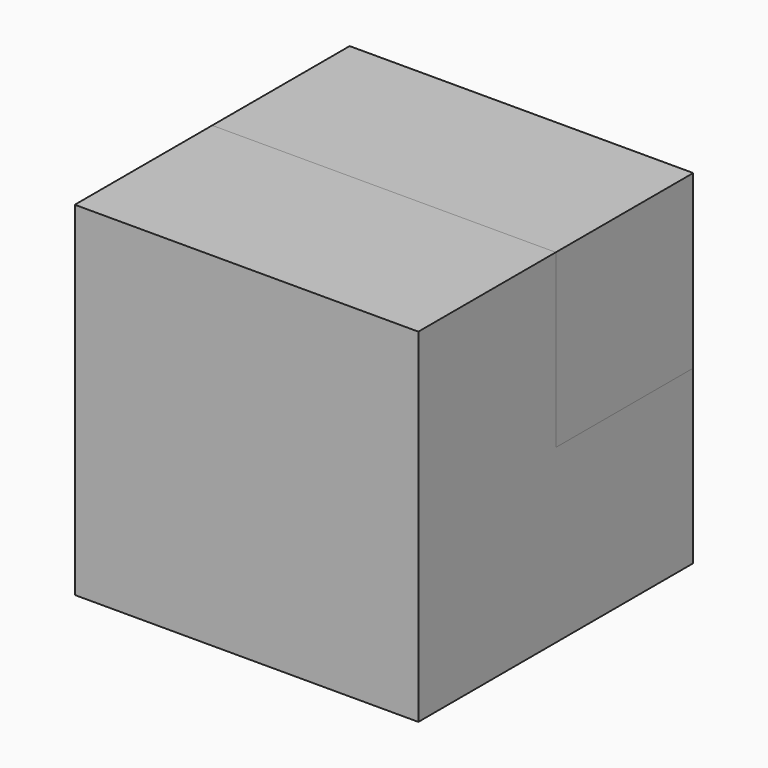
from build123d import *

# Parameters (mm, degrees)
F0_W      = 20
F0_H      = 10
F1_DEPTH  = 20
F2_DEPTH  = 10
F2_FACE_W = 20
F2_FACE_H = 10
F3_DEPTH  = 10


with BuildPart() as f1:
    # F0 (on Top) → F1 (new body)
    with BuildSketch(Plane.XY):
        with Locations((-1.004017, -5)):
            Rectangle(F0_W, F0_H)
    extrude(amount=F1_DEPTH)

    # F0 (on Top) → F2 (join)
    with BuildSketch(Plane.XY):
        with Locations((-1.004017, 5)):
            Rectangle(F0_W, F0_H)
    extrude(amount=F2_DEPTH)


with BuildPart() as f3:
    # F2_face (on face) → F3 (new body)
    with BuildSketch(Plane(origin=(-1.004017, 5, 10), x_dir=(1, 0, 0), z_dir=(0, 0, 1))):
        Rectangle(F2_FACE_W, F2_FACE_H)
    extrude(amount=F3_DEPTH)


solid = Compound([f1.part, f3.part])
